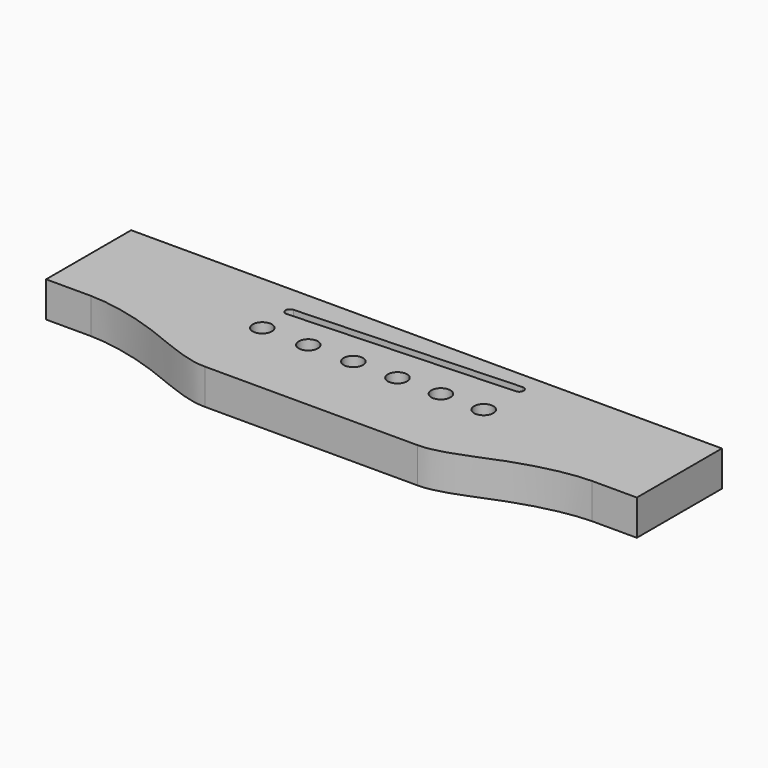
from build123d import *

# Parameters (mm, degrees)
F0_R     = 2.5796875
F1_DEPTH = 9.525


with BuildPart() as f1:
    # F0 (on Top) → F1 (new body)
    with BuildSketch(Plane.XY):
        with BuildLine():
            Line((79.375, 38.735), (0, 38.735))
            Line((0, 38.735), (-79.375, 38.735))
            Line((-79.375, 38.735), (-79.375, 10.16))
            Line((-79.375, 10.16), (-67.3197734616, 10.16))
            add(Edge.make_bspline(
                [(-67.3197734616, 10.16), (-61.8890552621, 10.096051957), (-47.5245088241, 6.9555987239), (-34.2622809842, 0), (-28.575, 0)],
                knots=[0, 0, 0, 0, 0.4982089749, 1, 1, 1, 1], degree=3))
            Line((-28.575, 0), (0, 0))
            Line((0, 0), (28.575, 0))
            add(Edge.make_bspline(
                [(67.3197734616, 10.16), (61.8890552621, 10.096051957), (47.5245088241, 6.9555987239), (34.2622809842, 0), (28.575, 0)],
                knots=[0, 0, 0, 0, 0.4982089749, 1, 1, 1, 1], degree=3))
            Line((67.3197734616, 10.16), (79.375, 10.16))
            Line((79.375, 10.16), (79.375, 38.735))
        make_face()
        with Locations((-30.1625, 21.2725)):
            Circle(F0_R, mode=Mode.SUBTRACT)
        with Locations((-17.80032, 21.2725)):
            Circle(F0_R, mode=Mode.SUBTRACT)
        with Locations((-5.70484, 21.2725)):
            Circle(F0_R, mode=Mode.SUBTRACT)
        with BuildLine():
            ThreePointArc((-30.1101352637, 29.388952081), (-31.351972919, 30.5260602637), (-30.2148647363, 31.767897919))
            Line((-30.2148647363, 31.767897919), (29.2846352637, 34.387272919))
            ThreePointArc((29.2846352637, 34.387272919), (30.526472919, 33.2501647363), (29.3893647363, 32.008327081))
            Line((29.3893647363, 32.008327081), (-30.1101352637, 29.388952081))
        make_face(mode=Mode.SUBTRACT)
        with Locations((6.16204, 21.2725)):
            Circle(F0_R, mode=Mode.SUBTRACT)
        with Locations((17.82572, 21.2725)):
            Circle(F0_R, mode=Mode.SUBTRACT)
        with Locations((29.337, 21.2725014065)):
            Circle(F0_R, mode=Mode.SUBTRACT)
    extrude(amount=F1_DEPTH)


solid = f1.part
